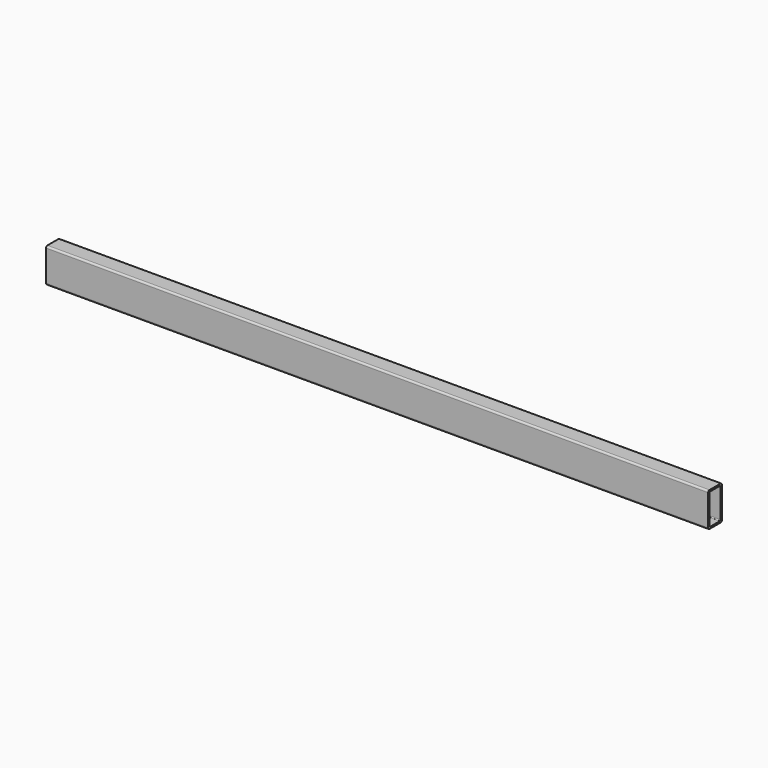
from build123d import *

# Parameters (mm, degrees)
F0_W     = 977.9
F0_H     = 50.8
F1_DEPTH = 12.7
F2_T     = -2.54
F3_R     = 2.54
F4_R     = 1.27


with BuildPart() as f1:
    # F0 (on Front) → F1 (new body, symmetric)
    with BuildSketch(Plane.XZ):
        Rectangle(F0_W, F0_H)
    extrude(amount=F1_DEPTH, both=True)

    # F2
    f2_openings = [f1.faces().sort_by_distance(p)[0] for p in [
        (-488.95, 0, 0),
        (488.95, 0, 0),
    ]]
    offset(amount=F2_T, openings=f2_openings)

    # F3
    f3_edges = [f1.edges().sort_by_distance(p)[0] for p in [
        (0, -12.7, 25.4),
        (0, 12.7, 25.4),
        (0, 12.7, -25.4),
        (0, -12.7, -25.4),
    ]]
    fillet(f3_edges, radius=F3_R)

    # F4
    f4_edges = [f1.edges().sort_by_distance(p)[0] for p in [
        (0, -10.16, 22.86),
        (0, 10.16, 22.86),
        (0, 10.16, -22.86),
        (0, -10.16, -22.86),
    ]]
    fillet(f4_edges, radius=F4_R)


solid = f1.part
